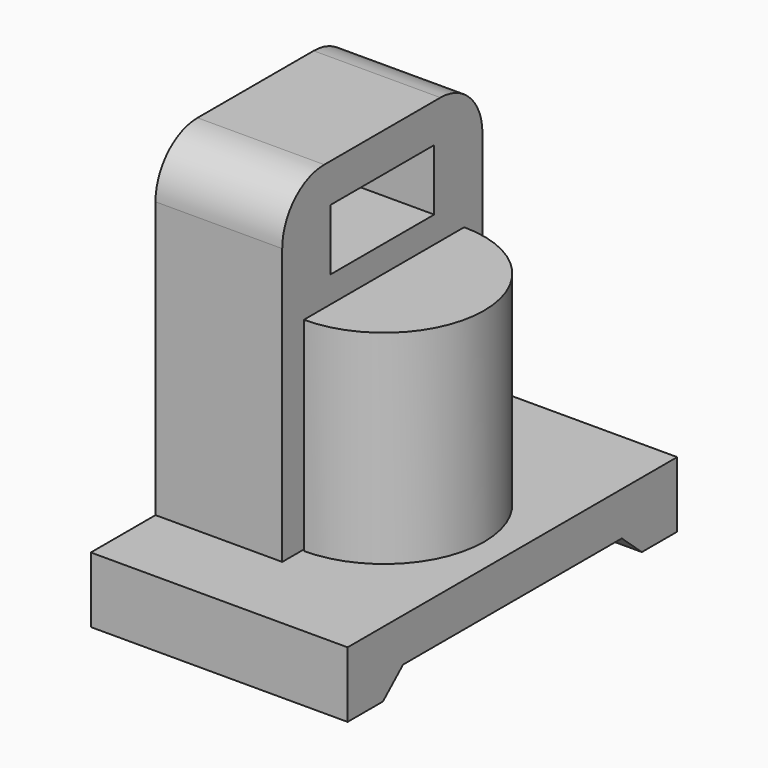
from build123d import *

# Parameters (mm, degrees)
SKETCH_W        = 39.101506
SKETCH_H        = 62.728786
PAD_DEPTH       = 10
POCKET_DEPTH    = 39.102506
SKETCH002_W     = 19.301168
SKETCH002_H     = 38.103164
PAD001_DEPTH    = 50
FILLET_R        = 8
PAD002_DEPTH    = 31
SKETCH004_W     = 19.757324
SKETCH004_H     = 9.317804
POCKET001_DEPTH = 19.302168


with BuildPart() as part:
    # Sketch → Pad (new body)
    with BuildSketch(Plane.XY):
        Rectangle(SKETCH_W, SKETCH_H)
    extrude(amount=PAD_DEPTH)

    # Sketch001 (on Face3 of Pad) → Pocket (cut, through all)
    with BuildSketch(Plane.YZ.offset(19.550753)):
        Polygon((-24.639747, 0), (-20.812978, 3.391465), (20.812978, 3.391465), (24.639747, 0), align=None)
    extrude(amount=-POCKET_DEPTH, mode=Mode.SUBTRACT)

    # Sketch002 (on Face8 of Pocket) → Pad001 (join)
    with BuildSketch(Plane.XY.offset(10)):
        with Locations((-9.90619, 0)):
            Rectangle(SKETCH002_W, SKETCH002_H)
    extrude(amount=PAD001_DEPTH)

    # Fillet
    fillet_edges = [part.edges().sort_by_distance(p)[0] for p in [
        (-9.90619, -19.051582, 60),
        (-9.90619, 19.051582, 60),
    ]]
    fillet(fillet_edges, radius=FILLET_R)

    # Sketch003 (on Face6 of Fillet) → Pad002 (join)
    with BuildSketch(Plane.XY.offset(10)):
        with BuildLine():
            ThreePointArc((0, -15.260272), (15.260272, 0), (0, 15.260272))
            Line((0, 0), (0, 15.260272))
            Line((0, 0), (0, -15.260272))
        make_face()
    extrude(amount=PAD002_DEPTH)

    # Sketch004 (on Face5 of Pad002) → Pocket001 (cut, through all)
    with BuildSketch(Plane.YZ.offset(-0.255606)):
        with Locations((0, 49.459888)):
            Rectangle(SKETCH004_W, SKETCH004_H)
    extrude(amount=-POCKET001_DEPTH, mode=Mode.SUBTRACT)


solid = part.part
